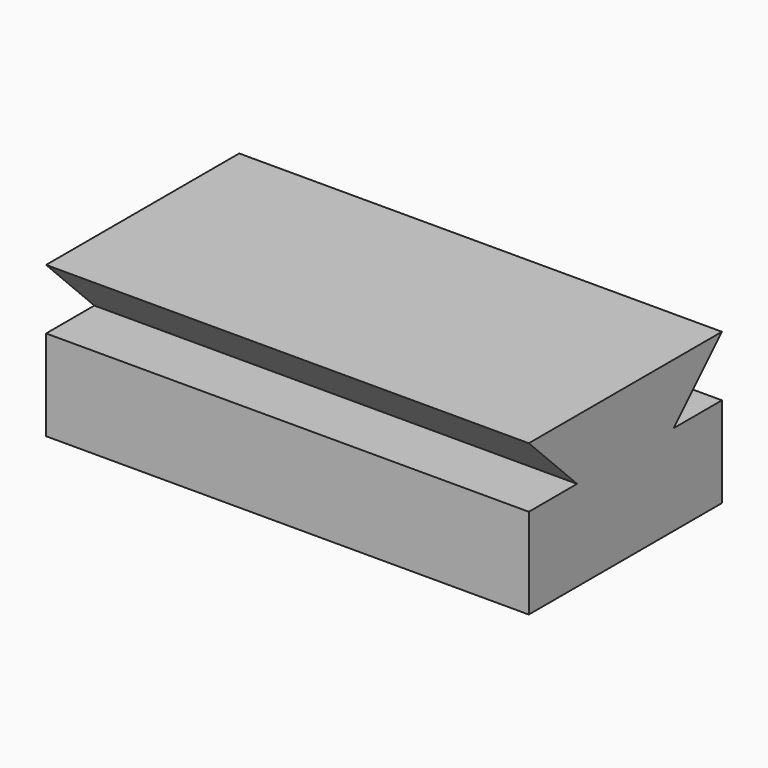
from build123d import *

# Parameters (mm, degrees)
F0_W     = 50.8
F0_H     = 25.4
F1_DEPTH = 203.2


with BuildPart() as f1:
    # F0 (on Right) → F1 (new body)
    with BuildSketch(Plane.YZ):
        Polygon((0, 63.5), (25.4, 38.1), (25.4, 63.5), align=None)
        with Locations((50.8, 50.8)):
            Rectangle(F0_W, F0_H)
        Polygon((76.2, 63.5), (76.2, 38.1), (101.6, 63.5), align=None)
        Polygon((0, 38.1), (0, 0), (101.6, 0), (101.6, 38.1), (76.2, 38.1), (25.4, 38.1), align=None)
    extrude(amount=F1_DEPTH)


solid = f1.part
